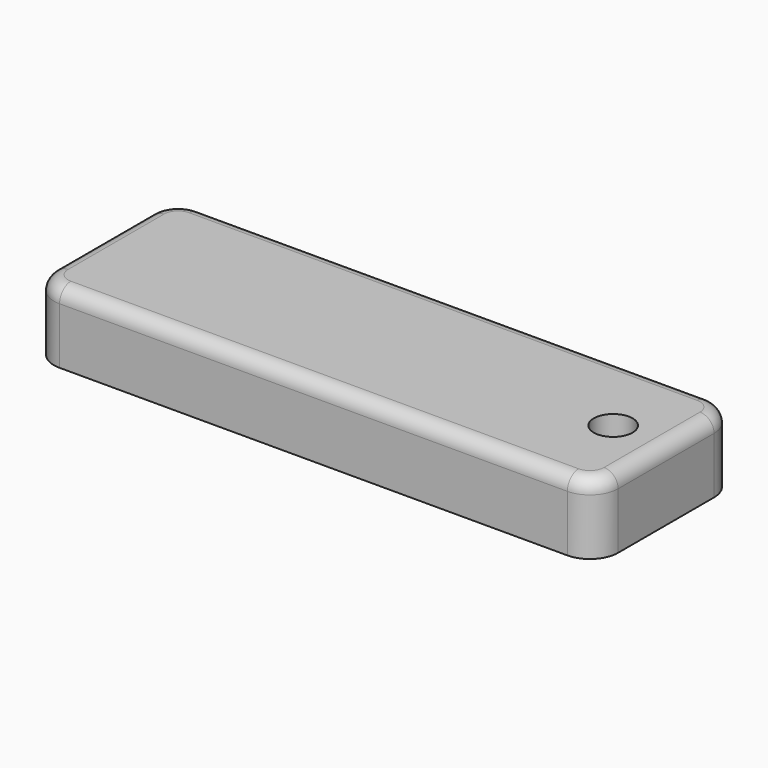
from build123d import *

# Parameters (mm, degrees)
F0_W     = 80
F0_H     = 25
F0_R     = 2.75
F1_DEPTH = 10
F2_R     = 4
F3_R     = 2


with BuildPart() as f1:
    # F0 (on Top) → F1 (new body)
    with BuildSketch(Plane.XY):
        Rectangle(F0_W, F0_H)
        with Locations((32.5, 0)):
            Circle(F0_R, mode=Mode.SUBTRACT)
    extrude(amount=F1_DEPTH)

    # F2
    f2_edges = [f1.edges().sort_by_distance(p)[0] for p in [
        (40, -12.5, 5),
        (-40, -12.5, 5),
        (40, 12.5, 5),
        (-40, 12.5, 5),
    ]]
    fillet(f2_edges, radius=F2_R)

    # F3
    f3_edges = [f1.edges().sort_by_distance(p)[0] for p in [
        (0, -12.5, 10),
    ]]
    fillet(f3_edges, radius=F3_R)


solid = f1.part
